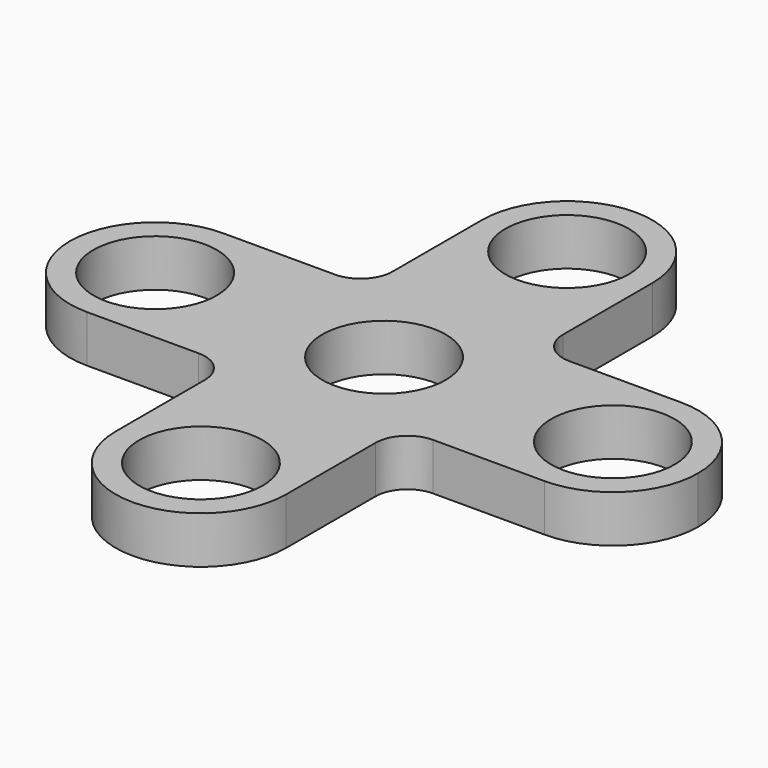
from build123d import *

# Parameters (mm, degrees)
F0_R     = 9.811337
F1_DEPTH = 7.5
F2_R     = 5.08
F3_R     = 5.08
F4_R     = 5.08
F5_R     = 5.08


with BuildPart() as f1:
    # F0 (on Top) → F1 (new body)
    with BuildSketch(Plane.XY):
        with BuildLine():
            ThreePointArc((-13.557643, 36.400266), (0, 22.842624), (13.557643, 36.400266))
            ThreePointArc((13.557643, 36.400266), (0, 49.957909), (-13.557643, 36.400266))
        make_face()
        with Locations((0, 36.400266)):
            Circle(F0_R, mode=Mode.SUBTRACT)
        with BuildLine():
            Line((13.557643, 13.557643), (13.557643, 36.400266))
            ThreePointArc((13.557643, 36.400266), (0, 22.842624), (-13.557643, 36.400266))
            Line((-13.557643, 36.400266), (-13.557643, 13.557643))
            Line((-13.557643, 13.557643), (-36.400266, 13.557643))
            ThreePointArc((-36.400266, 13.557643), (-26.813565, 9.586701), (-22.842624, 0))
            ThreePointArc((-22.842624, 0), (-26.813565, -9.586701), (-36.400266, -13.557643))
            Line((-36.400266, -13.557643), (-13.557643, -13.557643))
            Line((-13.557643, -13.557643), (-13.557643, -36.400266))
            ThreePointArc((-13.557643, -36.400266), (0, -22.842624), (13.557643, -36.400266))
            Line((13.557643, -36.400266), (13.557643, -13.557643))
            Line((13.557643, -13.557643), (36.400266, -13.557643))
            ThreePointArc((36.400266, -13.557643), (22.842624, 0), (36.400266, 13.557643))
            Line((36.400266, 13.557643), (13.557643, 13.557643))
        make_face()
        Circle(F0_R, mode=Mode.SUBTRACT)
        with BuildLine():
            ThreePointArc((49.957909, 0), (45.986968, 9.586701), (36.400266, 13.557643))
            ThreePointArc((36.400266, 13.557643), (22.842624, 0), (36.400266, -13.557643))
            ThreePointArc((36.400266, -13.557643), (45.986968, -9.586701), (49.957909, 0))
        make_face()
        with Locations((36.400266, 0)):
            Circle(F0_R, mode=Mode.SUBTRACT)
        with BuildLine():
            ThreePointArc((-22.842624, 0), (-26.813565, 9.586701), (-36.400266, 13.557643))
            ThreePointArc((-36.400266, 13.557643), (-49.957909, 0), (-36.400266, -13.557643))
            ThreePointArc((-36.400266, -13.557643), (-26.813565, -9.586701), (-22.842624, 0))
        make_face()
        with Locations((-36.400266, 0)):
            Circle(F0_R, mode=Mode.SUBTRACT)
        with BuildLine():
            ThreePointArc((-13.557643, -36.400266), (0, -49.957909), (13.557643, -36.400266))
            ThreePointArc((13.557643, -36.400266), (0, -22.842624), (-13.557643, -36.400266))
        make_face()
        with Locations((0, -36.400266)):
            Circle(F0_R, mode=Mode.SUBTRACT)
    extrude(amount=F1_DEPTH)

    # F2
    f2_edges = [f1.edges().sort_by_distance(p)[0] for p in [
        (-13.557643, 13.557643, 3.75),
    ]]
    fillet(f2_edges, radius=F2_R)

    # F3
    f3_edges = [f1.edges().sort_by_distance(p)[0] for p in [
        (13.557643, 13.557643, 3.75),
    ]]
    fillet(f3_edges, radius=F3_R)

    # F4
    f4_edges = [f1.edges().sort_by_distance(p)[0] for p in [
        (-13.557643, -13.557643, 3.75),
    ]]
    fillet(f4_edges, radius=F4_R)

    # F5
    f5_edges = [f1.edges().sort_by_distance(p)[0] for p in [
        (13.557643, -13.557643, 3.75),
    ]]
    fillet(f5_edges, radius=F5_R)


solid = f1.part
